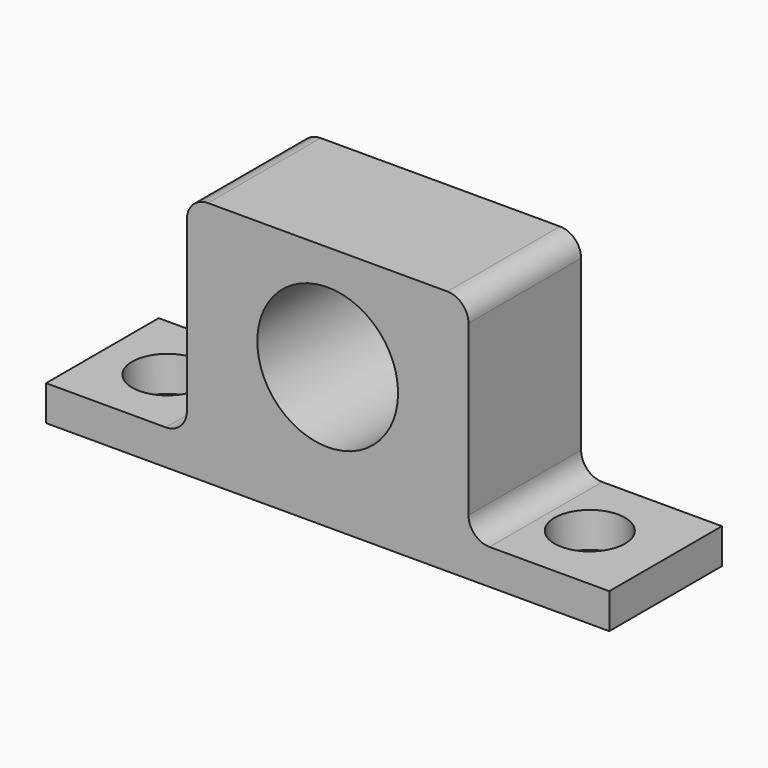
from build123d import *

# Parameters (mm, degrees)
F0_R     = 10
F1_DEPTH = 20
F2_R     = 3
F4_D     = 10


with BuildPart() as f1:
    # F0 (on Front) → F1 (new body)
    with BuildSketch(Plane.XZ):
        Polygon((-40, 5), (-40, 0), (40, 0), (40, 5), (20, 5), (20, 35), (-20, 35), (-20, 5), align=None)
        with Locations((0, 20)):
            Circle(F0_R, mode=Mode.SUBTRACT)
    extrude(amount=F1_DEPTH)

    # F2
    f2_edges = [f1.edges().sort_by_distance(p)[0] for p in [
        (20, -10, 35),
        (20, -10, 5),
        (-20, -10, 35),
        (-20, -10, 5),
    ]]
    fillet(f2_edges, radius=F2_R)

    # F4 (through all)
    with Locations(Plane(origin=(0, 0, 0), x_dir=(1, 0, 0), z_dir=(0, 0, -1))):
        with Locations((-30.768288, 10), (29.231712, 10)):
            Hole(F4_D / 2)


solid = f1.part
